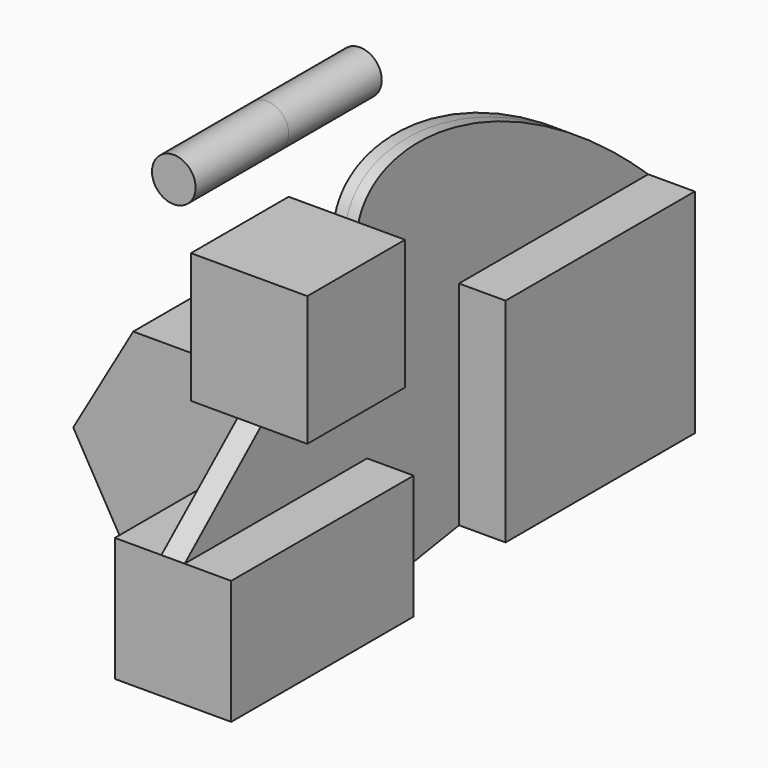
from build123d import *

# Parameters (mm, degrees)
F0_W     = 26.232722
F0_H     = 27.943549
F0_W_2   = 50.806452
F0_H_2   = 45.725806
F0_W_3   = 48.991933
F0_H_3   = 26.673385
F1_DEPTH = 12.5
F2_DEPTH = 2.5
F3_R     = 4.682563
F4_DEPTH = 25


with BuildPart() as f1:
    # F0 (on Right) → F1 (new body, symmetric)
    with BuildSketch(Plane.YZ):
        with Locations((-51.638104, 23.497985)):
            Rectangle(F0_W, F0_H)
        with Locations((13.881048, -7.893146)):
            Rectangle(F0_W_2, F0_H_2)
        with Locations((-60.695566, -21.411289)):
            Rectangle(F0_W_3, F0_H_3)
    extrude(amount=F1_DEPTH, both=True)


with BuildPart() as f2:
    # F0 (on Right) → F2 (new body, symmetric)
    with BuildSketch(Plane.YZ):
        Polygon((-38.521743, 9.526211), (-64.754465, 9.526211), (-85.191533, -8.074597), (-36.1996, -8.074597), (-36.1996, -34.747982), (-11.522178, -30.756049), (-11.522178, 14.969757), (-38.521743, 37.46976), align=None)
        with BuildLine():
            add(Edge.make_bspline(
                [(-38.521743, 37.46976), (-33.674397, 52.711695), (1.890125, 49.264114), (39.284274, 14.969757)],
                knots=[0, 0, 0, 0, 80.99399, 80.99399, 80.99399, 80.99399], degree=3))
            Line((-38.521743, 37.46976), (-11.522178, 14.969757))
            Line((-11.522178, 14.969757), (39.284274, 14.969757))
        make_face()
    extrude(amount=F2_DEPTH, both=True)


with BuildPart() as f4:
    # F3 (on Front) → F4 (new body, symmetric)
    with BuildSketch(Plane.XZ):
        with Locations((-47.993954, 23.679437)):
            Circle(F3_R)
        Polygon((-69.590533, -30.213908), (-56.703635, -52.530247), (-30.933669, -52.528035), (-18.050602, -30.209485), (-30.9375, -7.893146), (-56.707465, -7.895358), align=None)
    extrude(amount=F4_DEPTH, both=True)


solid = Compound([f1.part, f2.part, f4.part])
